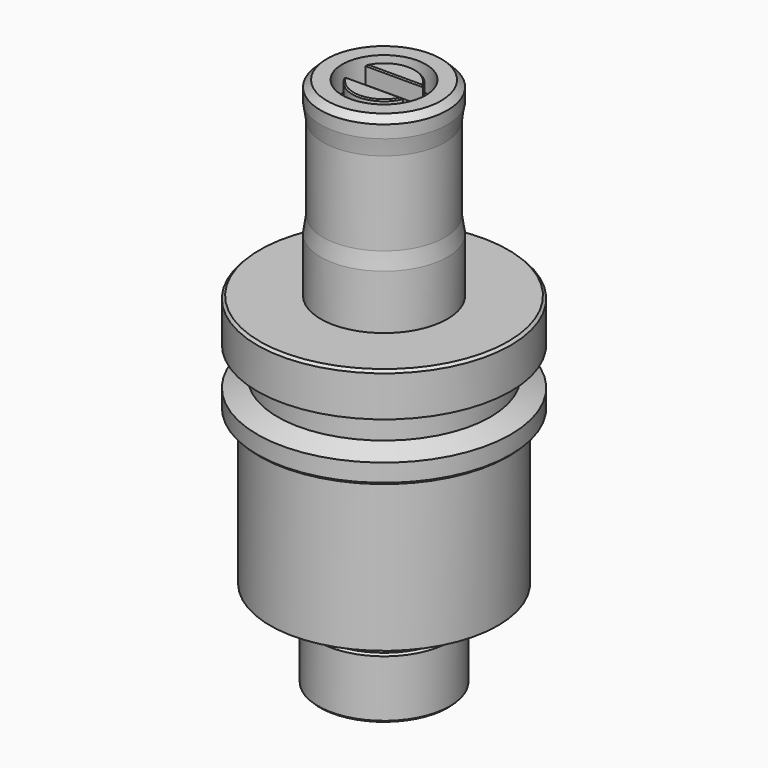
from build123d import *

# Parameters (mm, degrees)
F2_R      = 13.5
F2_R_2    = 10
F3_DEPTH  = 2
F4_DEPTH  = 25
F5_R      = 16.5
F6_DEPTH  = 10
F7_R      = 12.5
F8_DEPTH  = 9.5
F10_DEPTH = 7
F11_SIZE  = 0.5
F12_SIZE  = 1
F13_SIZE  = 0.8


with BuildPart() as f1:
    # F0 (on Front) → F1 (revolve)
    with BuildSketch(Plane.XZ):
        Polygon((0, 210), (0, 0), (26, 0), (26, 24), (22, 24), (22, 35), (45, 35), (45, 95), (50, 95), (50, 103), (42, 106.5), (42, 114.5), (50, 118), (50, 134), (49, 135), (25, 135), (25, 156.5), (24, 163), (24, 196), (25, 202.5), (25, 207.5), (22.5, 210), align=None)
    revolve(axis=Axis((0, 0, 105), (0, 0, 1)))

    # F2 (on face) → F3 (cut)
    with BuildSketch(Plane(origin=(0, 0, 0), x_dir=(1, 0, 0), z_dir=(0, 0, -1))):
        Circle(F2_R)
        Circle(F2_R_2, mode=Mode.SUBTRACT)
    extrude(amount=-F3_DEPTH, mode=Mode.SUBTRACT)

    # F2 (on face) → F4 (cut)
    with BuildSketch(Plane(origin=(0, 0, 0), x_dir=(1, 0, 0), z_dir=(0, 0, -1))):
        Circle(F2_R_2)
    extrude(amount=-F4_DEPTH, mode=Mode.SUBTRACT)

    # F5 (on face) → F6 (cut)
    with BuildSketch(Plane.XY.offset(210)):
        Circle(F5_R)
    extrude(amount=-F6_DEPTH, mode=Mode.SUBTRACT)

    # F7 (on face) → F8 (join)
    with BuildSketch(Plane.XY.offset(200)):
        Circle(F7_R)
    extrude(amount=F8_DEPTH)

    # F9 (on face) → F10 (cut)
    with BuildSketch(Plane.XY.offset(209.5)):
        with BuildLine():
            ThreePointArc((12.5, 0), (12.2307213882, 2.5805918554), (11.4344873081, 5.05))
            Line((11.4344873081, 5.05), (-11.4344873081, 5.05))
            ThreePointArc((-11.4344873081, 5.05), (-12.5, 0), (-11.4344873081, -5.05))
            Line((-11.4344873081, -5.05), (11.4344873081, -5.05))
            ThreePointArc((11.4344873081, -5.05), (12.2307213882, -2.5805918554), (12.5, 0))
        make_face()
    extrude(amount=-F10_DEPTH, mode=Mode.SUBTRACT)

    # F11
    f11_edges = [f1.edges().sort_by_distance(p)[0] for p in [
        (0, 5.05, 209.5),
        (0, 12.5, 209.5),
        (0, -12.5, 209.5),
        (0, -5.05, 209.5),
    ]]
    chamfer(f11_edges, length=F11_SIZE)

    # F12
    f12_edges = [f1.edges().sort_by_distance(p)[0] for p in [
        (-50, 0, 95),
    ]]
    chamfer(f12_edges, length=F12_SIZE)

    # F13
    f13_edges = [f1.edges().sort_by_distance(p)[0] for p in [
        (-26, 0, 24),
        (-26, 0, 0),
    ]]
    chamfer(f13_edges, length=F13_SIZE)


solid = f1.part
